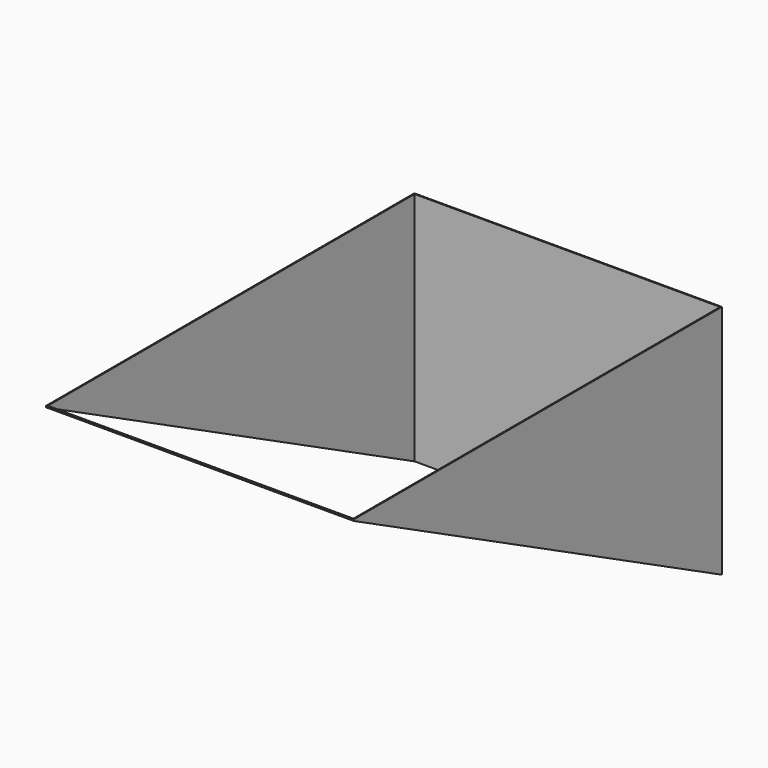
from build123d import *

# Parameters (mm, degrees)
F0_W     = 463
F0_H     = 693
F0_W_2   = 460
F0_H_2   = 690
F1_DEPTH = 355
F3_DEPTH = 463.001


with BuildPart() as f1:
    # F0 (on Top) → F1 (new body)
    with BuildSketch(Plane.XY):
        Rectangle(F0_W, F0_H)
        Rectangle(F0_W_2, F0_H_2, mode=Mode.SUBTRACT)
    extrude(amount=-F1_DEPTH)

    # F2 (on face) → F3 (cut, through all)
    with BuildSketch(Plane.YZ.offset(231.5)):
        Polygon((346.5, -355), (-346.5, -2), (-346.5, -355), align=None)
    extrude(amount=-F3_DEPTH, mode=Mode.SUBTRACT)


solid = f1.part
